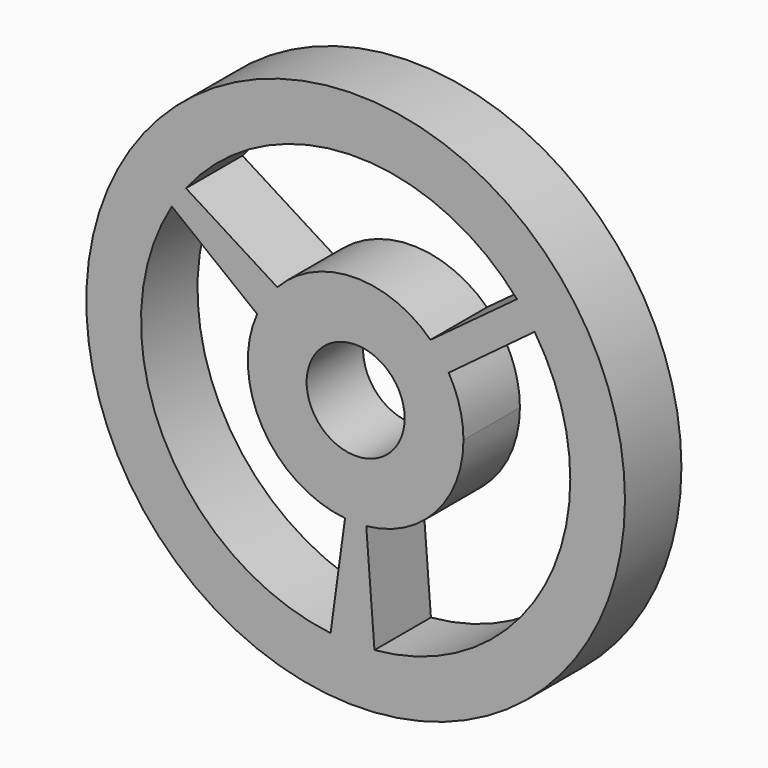
from build123d import *

# Parameters (mm, degrees)
F0_R     = 6.870187
F0_R_2   = 1.25
F1_DEPTH = 1.8


with BuildPart() as f1:
    # F0 (on Front) → F1 (new body)
    with BuildSketch(Plane.XZ):
        Circle(F0_R)
        with BuildLine():
            ThreePointArc((4.565355, 3.022111), (5.242659, 1.578022), (5.475, 0))
            ThreePointArc((5.475, 0), (4.037518, -3.697847), (0.479905, -5.453927))
            ThreePointArc((0.479905, -5.453927), (-0.080045, -5.474415), (-0.639157, -5.437564))
            ThreePointArc((-0.639157, -5.437564), (-4.916584, -2.408906), (-4.688537, 2.827233))
            ThreePointArc((-4.688537, 2.827233), (-4.515673, 3.095855), (-4.327438, 3.353939))
            ThreePointArc((-4.327438, 3.353939), (-0.165763, 5.47249), (4.116508, 3.609708))
            ThreePointArc((4.116508, 3.609708), (4.350862, 3.323495), (4.565355, 3.022111))
        make_face(mode=Mode.SUBTRACT)
        with BuildLine():
            ThreePointArc((2.75, 0), (2.654061, 0.720041), (2.372939, 1.389842))
            ThreePointArc((2.372939, 1.389842), (2.161642, 1.699942), (1.910097, 1.978391))
            ThreePointArc((1.910097, 1.978391), (-0.062718, 2.749285), (-1.998327, 1.88923))
            ThreePointArc((-1.998327, 1.88923), (-2.287733, 1.526034), (-2.511897, 1.119318))
            ThreePointArc((-2.511897, 1.119318), (-2.377631, -1.3818), (-0.270954, -2.736619))
            ThreePointArc((-0.270954, -2.736619), (0, -2.75), (0.270954, -2.736619))
            ThreePointArc((0.270954, -2.736619), (2.03809, -1.846263), (2.75, 0))
        make_face()
        Circle(F0_R_2, mode=Mode.SUBTRACT)
        with BuildLine():
            Line((2.372939, 1.389842), (4.565355, 3.022111))
            ThreePointArc((4.565355, 3.022111), (4.350862, 3.323495), (4.116508, 3.609708))
            Line((4.116508, 3.609708), (1.910097, 1.978391))
            ThreePointArc((1.910097, 1.978391), (2.161642, 1.699942), (2.372939, 1.389842))
        make_face()
        with BuildLine():
            ThreePointArc((-0.639157, -5.437564), (-0.080045, -5.474415), (0.479905, -5.453927))
            Line((0.479905, -5.453927), (0.270954, -2.736619))
            ThreePointArc((0.270954, -2.736619), (0, -2.75), (-0.270954, -2.736619))
            Line((-0.270954, -2.736619), (-0.639157, -5.437564))
        make_face()
        with BuildLine():
            Line((-1.998327, 1.88923), (-4.327438, 3.353939))
            ThreePointArc((-4.327438, 3.353939), (-4.515673, 3.095855), (-4.688537, 2.827233))
            Line((-4.688537, 2.827233), (-2.511897, 1.119318))
            ThreePointArc((-2.511897, 1.119318), (-2.287733, 1.526034), (-1.998327, 1.88923))
        make_face()
    extrude(amount=-F1_DEPTH)


solid = f1.part
